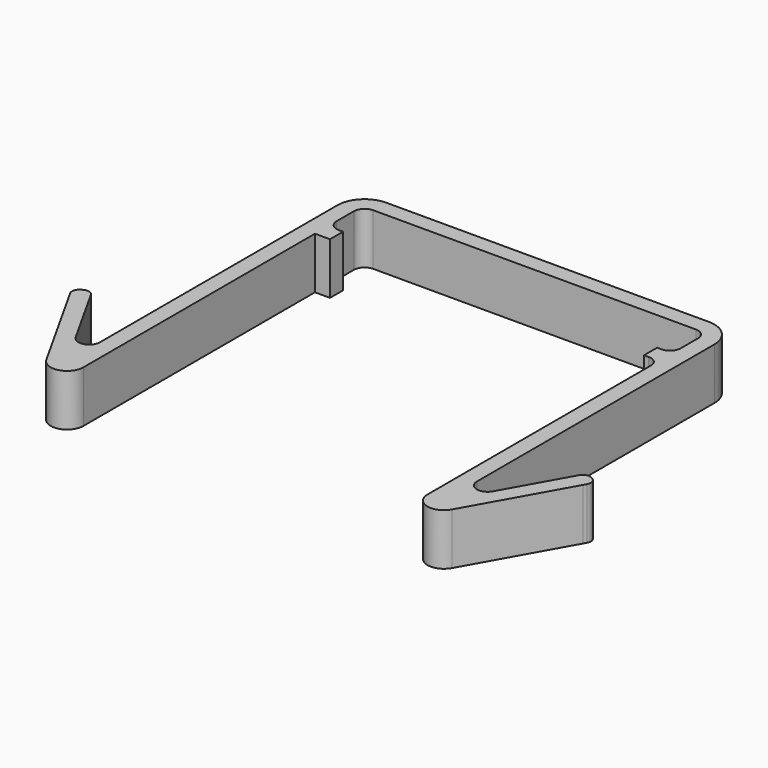
from build123d import *

# Parameters (mm, degrees)
F1_DEPTH = 12


with BuildPart() as f1:
    # F0 (on Top) → F1 (new body)
    with BuildSketch(Plane.XY):
        with BuildLine():
            ThreePointArc((-40, 41.475576), (-39.267767, 43.243343), (-37.5, 43.975576))
            Line((-37.5, 43.975576), (0, 43.975576))
            Line((0, 43.975576), (37.5, 43.975576))
            ThreePointArc((37.5, 43.975576), (39.267767, 43.243343), (40, 41.475576))
            Line((40, 41.475576), (40, 36.475576))
            ThreePointArc((40, 36.475576), (39.267767, 34.707809), (37.5, 33.975576))
            Line((37.5, 33.975576), (36.5, 33.975576))
            Line((36.5, 33.975576), (36.5, 30.165576))
            Line((36.5, 30.165576), (37.5, 30.165576))
            Line((37.5, 30.165576), (37.653834, 30.165445))
            ThreePointArc((37.653834, 30.165445), (39.312945, 29.476975), (40, 27.817278))
            Line((40, 27.817278), (40, -37.104424))
            ThreePointArc((40, -37.104424), (42.847481, -40.790839), (47.133678, -38.967021))
            Line((47.133678, -38.967021), (59.693452, -16.55495))
            Line((59.693452, -16.55495), (60.083823, -15.85836))
            ThreePointArc((60.083823, -15.85836), (60.237122, -14.566298), (59.431896, -13.544274))
            Line((59.431896, -13.544274), (59.253063, -13.444056))
            Line((59.253063, -13.444056), (59.07423, -13.343837))
            ThreePointArc((59.07423, -13.343837), (57.782169, -13.190537), (56.760145, -13.995763))
            Line((56.760145, -13.995763), (56.369774, -14.692354))
            Line((56.369774, -14.692354), (48.490891, -28.75169))
            ThreePointArc((48.490891, -28.75169), (45.678426, -29.948421), (43.81, -27.529513))
            Line((43.81, -27.529513), (43.81, 36.475576))
            Line((43.81, 36.475576), (43.81, 41.465576))
            ThreePointArc((43.81, 41.465576), (41.961844, 45.92742), (37.5, 47.775576))
            Line((37.5, 47.775576), (0, 47.775576))
            Line((0, 47.775576), (-37.5, 47.775576))
            ThreePointArc((-37.5, 47.775576), (-41.961844, 45.92742), (-43.81, 41.465576))
            Line((-43.81, 41.465576), (-43.81, 36.475576))
            Line((-43.81, 36.475576), (-43.81, -27.529513))
            ThreePointArc((-43.81, -27.529513), (-45.678426, -29.948421), (-48.490891, -28.75169))
            Line((-48.490891, -28.75169), (-56.369774, -14.692354))
            Line((-56.369774, -14.692354), (-56.760145, -13.995763))
            ThreePointArc((-56.760145, -13.995763), (-57.782169, -13.190537), (-59.07423, -13.343837))
            Line((-59.07423, -13.343837), (-59.253063, -13.444056))
            Line((-59.253063, -13.444056), (-59.431896, -13.544274))
            ThreePointArc((-59.431896, -13.544274), (-60.237122, -14.566298), (-60.083823, -15.85836))
            Line((-60.083823, -15.85836), (-59.693452, -16.55495))
            Line((-59.693452, -16.55495), (-47.133678, -38.967021))
            ThreePointArc((-47.133678, -38.967021), (-42.847481, -40.790839), (-40, -37.104424))
            Line((-40, -37.104424), (-40, 30.165576))
            Line((-40, 30.165576), (-37.5, 30.165576))
            Line((-37.5, 30.165576), (-36.5, 30.165576))
            Line((-36.5, 30.165576), (-36.5, 33.975576))
            Line((-36.5, 33.975576), (-37.5, 33.975576))
            ThreePointArc((-37.5, 33.975576), (-39.267767, 34.707809), (-40, 36.475576))
            Line((-40, 36.475576), (-40, 41.475576))
        make_face()
    extrude(amount=F1_DEPTH)


solid = f1.part
